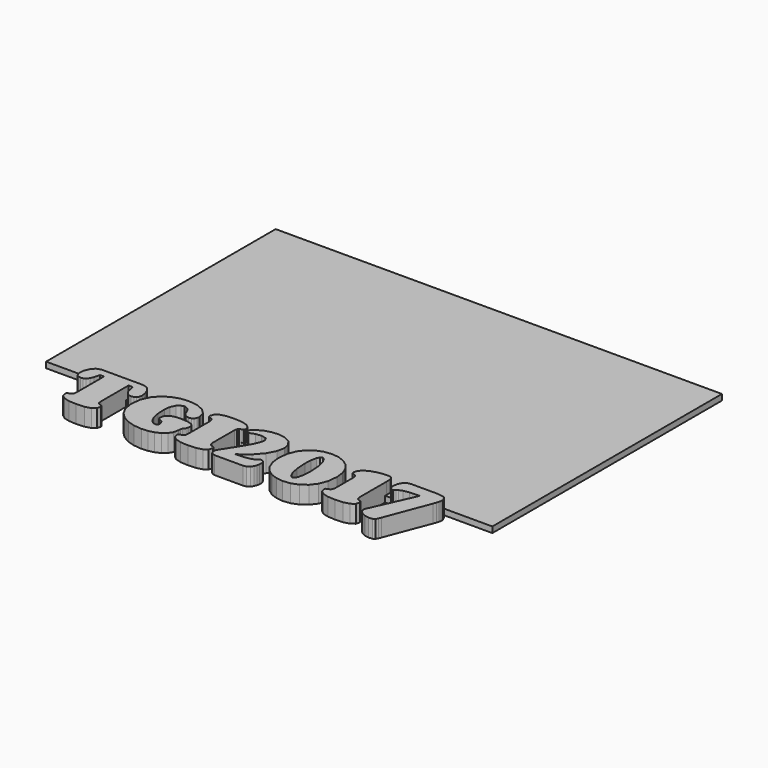
from build123d import *

# Parameters (mm, degrees)
F0_W     = 55.88
F0_H     = 2
F1_DEPTH = 1
F2_DEPTH = 1
F4_DEPTH = 3


with BuildPart() as f1:
    # F0 (on Top) → F1 (new body)
    with BuildSketch(Plane.XY):
        Polygon((38.1, -24.5), (38.1, 24.5), (-38.1, 24.5), (-38.1, -24.5), (-27.94, -24.5), (-27.94, -22.5), (27.94, -22.5), (27.94, -24.5), align=None)
        with Locations((0, -23.5)):
            Rectangle(F0_W, F0_H)
    extrude(amount=F1_DEPTH)

    # F0 (on Top) → F2 (join)
    with BuildSketch(Plane.XY):
        with Locations((0, -25.5)):
            Rectangle(F0_W, F0_H)
    extrude(amount=F2_DEPTH)

    # F3 (on Top) → F4 (join)
    with BuildSketch(Plane.XY):
        Polygon((-22.7423018799, -32.3676362354), (-22.8139298799, -31.9320262354), (-22.8139298799, -26.0011262354), (-22.1141598799, -26.0285582354), (-21.8715898799, -27.0153482354), (-21.6564518799, -27.5886262354), (-21.3425078799, -27.9688642354), (-20.9731918799, -28.1728262354), (-20.5871118799, -28.2335322354), (-20.1847758799, -28.1619042354), (-19.8594018799, -27.9523542354), (-19.6445178799, -27.6160582354), (-19.5673018799, -27.1695262354), (-19.6777918799, -26.3648542354), (-20.0029118799, -25.5543402354), (-20.5540918799, -24.9315322354), (-21.3369198799, -24.6833742354), (-28.4529838799, -24.6833742354), (-29.2413998799, -24.9371202354), (-29.7925798799, -25.5601822354), (-30.1232878799, -26.3757762354), (-30.2335238799, -27.1804482354), (-30.1563078799, -27.6269802354), (-29.9414238799, -27.9632762354), (-29.6107158799, -28.1784142354), (-29.2027918799, -28.2500422354), (-28.8278878799, -28.1837482354), (-28.4750818799, -27.9741982354), (-28.1608838799, -27.5995482354), (-27.9183138799, -27.0318582354), (-27.6757438799, -26.0394802354), (-26.9813078799, -26.0176362354), (-26.9813078799, -31.9541242354), (-27.0585238799, -32.3838922354), (-27.2403878799, -32.6099522354), (-27.4773698799, -32.7204422354), (-27.7143518799, -32.7864822354), (-27.8962158799, -32.8855422354), (-27.9680978799, -33.0950922354), (-27.7694698799, -33.7620962354), (-27.1796818799, -34.2198042354), (-26.2205778799, -34.4786302354), (-24.9254318799, -34.5611802354), (-23.5901538799, -34.4758362354), (-22.6099678799, -34.2198042354), (-22.0120518799, -33.7646362354), (-21.8111378799, -33.0950922354), (-21.8878458799, -32.8855422354), (-22.0699638799, -32.7806402354), (-22.3127878799, -32.7148542354), (-22.5551038799, -32.6043642354), align=None)
        Polygon((-9.7090538799, -32.7920702354), (-9.5492878799, -31.9541242354), (-9.5104258799, -31.5075922354), (-9.4001898799, -31.2429242354), (-9.2622678799, -31.0610602354), (-9.1192658799, -30.8736082354), (-9.0143638799, -30.5815082354), (-8.9701678799, -30.1019562354), (-9.0806578799, -29.7270522354), (-9.4608958799, -29.4240302354), (-10.2107038799, -29.2254022354), (-11.4065358799, -29.1537742354), (-12.2775018799, -29.2035582354), (-13.0273098799, -29.4019322354), (-13.5563918799, -29.8484642354), (-13.7550198799, -30.6257042354), (-13.6719618799, -30.9452362354), (-13.4682538799, -31.1105902354), (-13.1926638799, -31.2154922354), (-12.9224078799, -31.3696702354), (-12.7133658799, -31.6782802354), (-12.6249738799, -32.2353022354), (-12.7461318799, -32.4392642354), (-13.0603298799, -32.5274022354), (-13.4022138799, -32.4557742354), (-13.7768638799, -32.2022822354), (-14.1405918799, -31.7280642354), (-14.4547898799, -30.9726682354), (-14.6755158799, -29.8924062354), (-14.7578118799, -28.4540042354), (-14.6094758799, -27.3790762354), (-14.2343178799, -26.6348562354), (-13.7435898799, -26.1939122354), (-13.2477818799, -26.0504022354), (-12.9114858799, -26.1166962354), (-12.5477578799, -26.3041482354), (-12.2335598799, -26.6183462354), (-12.0351858799, -27.0427802354), (-11.8200478799, -27.6160582354), (-11.5114378799, -27.9907082354), (-11.1477098799, -28.2002582354), (-10.7616298799, -28.2609642354), (-10.3539598799, -28.1893362354), (-10.0285858799, -27.9741982354), (-9.8081138799, -27.6379022354), (-9.7308978799, -27.1916242354), (-10.0560178799, -26.0727542354), (-10.9328258799, -25.2292202354), (-12.1949518799, -24.6998842354), (-13.6943138799, -24.5126862354), (-15.0115578799, -24.6506082354), (-16.2851138799, -25.0585322354), (-17.4370038799, -25.7638902354), (-18.3740098799, -26.7890342354), (-19.0026598799, -28.1451402354), (-19.2282118799, -29.8593862354), (-19.0026598799, -31.3973562354), (-18.3740098799, -32.6264622354), (-17.4316698799, -33.5634682354), (-16.2739378799, -34.2139622354), (-14.9841258799, -34.5886122354), (-13.6554518799, -34.7156122354), (-12.6084638799, -34.6328082354), (-11.6384378799, -34.4014142354), (-10.8004918799, -34.0153342354), (-10.1390758799, -33.4753302354), align=None)
        Polygon((-3.6483598799, -32.3676362354), (-3.7199878799, -31.9320262354), (-3.7090658799, -27.2797622354), (-3.6374378799, -26.8606622354), (-3.4553198799, -26.6292682354), (-3.2130038799, -26.5190322354), (-2.9757678799, -26.4529922354), (-2.7939038799, -26.3539322354), (-2.7169418799, -26.1385402354), (-2.9209038799, -25.4771242354), (-3.5160258799, -25.0252582354), (-4.4916398799, -24.7664322354), (-5.8312358799, -24.6833742354), (-7.1319698799, -24.7664322354), (-8.0854858799, -25.0252582354), (-8.6752738799, -25.4771242354), (-8.8739018799, -26.1385402354), (-8.8022738799, -26.3539322354), (-8.6204098799, -26.4529922354), (-8.3831738799, -26.5190322354), (-8.1461918799, -26.6292682354), (-7.9645818799, -26.8606622354), (-7.8871118799, -27.2797622354), (-7.8871118799, -31.9541242354), (-7.9645818799, -32.3838922354), (-8.1461918799, -32.6099522354), (-8.3831738799, -32.7204422354), (-8.6204098799, -32.7864822354), (-8.8022738799, -32.8855422354), (-8.8739018799, -33.0950922354), (-8.6752738799, -33.7620962354), (-8.0854858799, -34.2198042354), (-7.1319698799, -34.4786302354), (-5.8312358799, -34.5611802354), (-4.4959578799, -34.4758362354), (-3.5160258799, -34.2198042354), (-2.9181098799, -33.7646362354), (-2.7169418799, -33.0950922354), (-2.7939038799, -32.8855422354), (-2.9816098799, -32.7806402354), (-3.2239258799, -32.7148542354), (-3.4609078799, -32.6043642354), align=None)
        Polygon((-1.3334038799, -32.1580862354), (-1.9673878799, -33.1667202354), (-2.0720358799, -33.4092902354), (-2.1103898799, -33.6848802354), (-2.0664478799, -34.0044122354), (-1.9176038799, -34.2855902354), (-1.6529358799, -34.4842182354), (-1.2671098799, -34.5611802354), (3.5837821201, -34.5611802354), (4.1181981201, -34.4565322354), (4.5149461201, -34.1700202354), (4.7961241201, -33.7620962354), (4.9673201201, -33.3046422354), (5.0554581201, -32.8413462354), (5.0828901201, -32.4392642354), (4.8733401201, -31.8934182354), (4.3442581201, -31.6894562354), (4.2010021201, -31.7610842354), (4.0412361201, -31.9266922354), (3.7379601201, -32.1471642354), (3.1702701201, -32.3620482354), (2.2109121201, -32.5274022354), (0.7392361201, -32.5934422354), (2.4920901201, -31.2652762354), (3.7326261201, -29.8540522354), (4.4710041201, -28.4590842354), (4.7135741201, -27.1586042354), (4.5040241201, -26.1111082354), (3.8977261201, -25.2790042354), (2.8946801201, -24.7275702354), (1.5111421201, -24.5291962354), (0.4745681201, -24.6282562354), (-0.5119678799, -24.9094342354), (-1.3941098799, -25.3615542354), (-2.1103898799, -25.9787742354), (-2.1601738799, -26.0669122354), (-2.1820178799, -26.1662262354), (-2.1545858799, -26.3480902354), (-2.0720358799, -26.5302082354), (-1.9450358799, -26.6678762354), (-1.8017798799, -26.7232482354), (-1.6031518799, -26.6625422354), (-0.8535978799, -26.3757762354), (0.0668981201, -26.2599522354), (1.0260021201, -26.4748362354), (1.3071801201, -27.0592902354), (1.1418261201, -27.8309422354), (0.7059621201, -28.8009682354), (0.0943301201, -29.9035822354), (-0.6168698799, -31.0498842354), align=None)
        Polygon((15.2116481201, -30.9617462354), (15.3988461201, -29.2916962354), (15.2225701201, -27.8474522354), (14.7430181201, -26.6625422354), (14.0043861201, -25.7364582354), (13.0562041201, -25.0636122354), (11.9535901201, -24.6615302354), (10.7577581201, -24.5291962354), (9.5065541201, -24.6780402354), (8.3544101201, -25.1133962354), (7.3566981201, -25.8464402354), (6.5685361201, -26.8830142354), (6.0559641201, -28.2111802354), (5.8738461201, -29.8375422354), (6.0394541201, -31.3254742354), (6.5187521201, -32.5383242354), (7.2517961201, -33.4918402354), (8.1888021201, -34.1756082354), (9.2802401201, -34.5776902354), (10.4765801201, -34.7156122354), (11.7280381201, -34.5667682354), (12.8911041201, -34.1202362354), (13.8994841201, -33.3706822354), (14.6932341201, -32.3178522354), align=None)
        Polygon((9.7214381201, -30.6752342354), (9.6165361201, -28.9114582354), (9.6828301201, -27.6493322354), (9.8535181201, -26.7671902354), (10.1072641201, -26.2543642354), (10.4158741201, -26.0892642354), (10.8458961201, -26.3704422354), (11.2373101201, -27.1695262354), (11.5240761201, -28.4372402354), (11.6396461201, -30.1131322354), (11.5733521201, -31.4799062354), (11.3970761201, -32.4169122354), (11.1379961201, -32.9627582354), (10.8403081201, -33.1390342354), (10.4049521201, -32.8527762354), (10.0082041201, -32.0092422354), align=None, mode=Mode.SUBTRACT)
        Polygon((21.4620801201, -32.3676362354), (21.3904521201, -31.9320262354), (21.4069621201, -26.2655402354), (21.3904521201, -25.5929482354), (21.2969801201, -25.0968862354), (21.0544101201, -24.7991982354), (20.6081321201, -24.6948042354), (19.6873821201, -24.7496682354), (18.7171021201, -24.9152762354), (17.7859381201, -25.2073762354), (16.9921881201, -25.6315562354), (16.4463421201, -26.1939122354), (16.2423801201, -26.9048582354), (16.3140081201, -27.1199962354), (16.4956181201, -27.2190562354), (16.7328541201, -27.2850962354), (16.9642481201, -27.3899982354), (17.1461121201, -27.6213922354), (17.2235821201, -28.0460802354), (17.2235821201, -31.9541242354), (17.1461121201, -32.3838922354), (16.9642481201, -32.6099522354), (16.7328541201, -32.7204422354), (16.4956181201, -32.7864822354), (16.3140081201, -32.8855422354), (16.2423801201, -33.0950922354), (16.4407541201, -33.7620962354), (17.0305421201, -34.2198042354), (17.9840581201, -34.4786302354), (19.2850461201, -34.5611802354), (20.6162601201, -34.4758362354), (21.5944141201, -34.2198042354), (22.1966481201, -33.7646362354), (22.3993401201, -33.0950922354), (22.3221241201, -32.8855422354), (22.1349261201, -32.7806402354), (21.8921021201, -32.7148542354), (21.6497861201, -32.6043642354), align=None)
        Polygon((25.7175961201, -26.7285822354), (27.1895261201, -26.6625422354), (27.4318421201, -26.6460322354), (24.0861541201, -34.1149022354), (24.0089381201, -34.4456102354), (24.1961361201, -34.9693582354), (24.6759421201, -35.4103022354), (25.3317701201, -35.7077362354), (26.0483041201, -35.8182262354), (26.6601901201, -35.7407562354), (27.0020741201, -35.5202842354), (27.2004481201, -35.1733202354), (27.3711361201, -34.7046902354), (30.1933301201, -27.3018602354), (30.3810361201, -26.7725242354), (30.5019401201, -26.3539322354), (30.5740761201, -26.0064602354), (30.5959201201, -25.6922622354), (30.2266041201, -24.9261982354), (29.0305181201, -24.6948042354), (24.3505681201, -24.6948042354), (23.8105641201, -24.8047862354), (23.4135621201, -25.0915522354), (23.1377181201, -25.4936342354), (22.9614421201, -25.9569302354), (22.8733041201, -26.4143842354), (22.8514601201, -26.8167202354), (23.0610101201, -27.3623122354), (23.5900921201, -27.5662742354), (23.7277601201, -27.5002342354), (23.8931141201, -27.3292922354), (24.1908021201, -27.1144082354), (24.7584921201, -26.8939362354), align=None)
    extrude(amount=F4_DEPTH)


solid = f1.part
